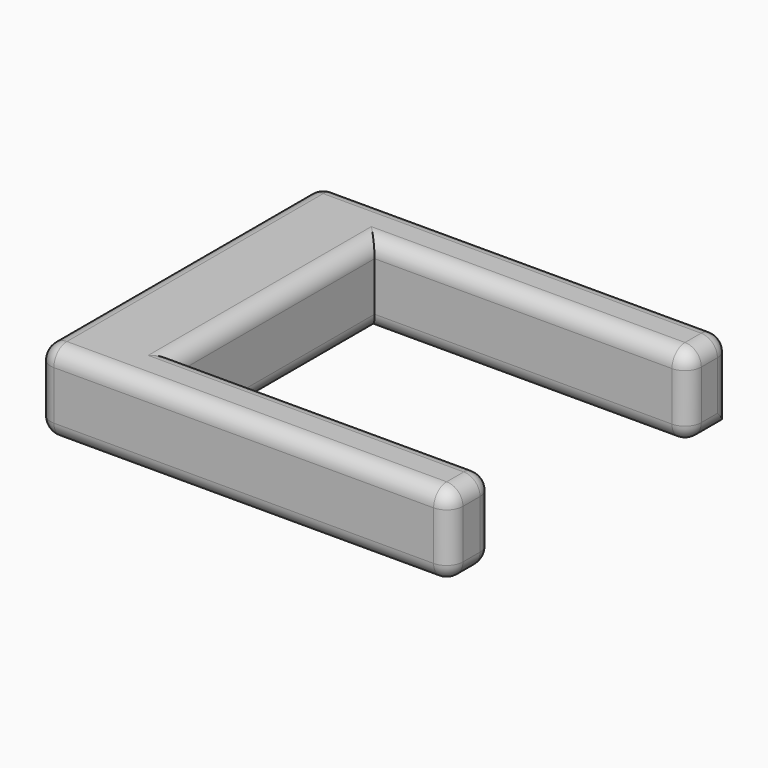
from build123d import *

# Parameters (mm, degrees)
F0_W     = 30.1708392799
F0_H     = 76.7637714744
F1_DEPTH = 25.4
F2_R     = 5.08


with BuildPart() as f1:
    # F0 (on Top) → F1 (new body)
    with BuildSketch(Plane.XY):
        with Locations((-48.0250958353, -0.8592940867)):
            Rectangle(F0_W, F0_H)
        Polygon((-32.9396761954, -39.2411798239), (-63.1105154753, -39.2411798239), (-63.1105154753, -56.0451894999), (65.4019713402, -56.0451894999), (65.4019713402, -39.2411798239), align=None)
        Polygon((64.8291036487, 53.9446882904), (-63.1105154753, 53.9446882904), (-63.1105154753, 37.5225916505), (-32.9396761954, 37.5225916505), (64.8291036487, 37.5225916505), align=None)
    extrude(amount=F1_DEPTH)

    # F2
    f2_edges = [f1.edges().sort_by_distance(p)[0] for p in [
        (15.944714, 37.522592, 25.4),
        (-32.939676, -0.859294, 25.4),
        (16.231148, -39.24118, 25.4),
        (65.401971, -47.643185, 25.4),
        (64.829104, 45.73364, 25.4),
        (1.145728, -56.045189, 25.4),
        (65.401971, -56.045189, 12.7),
        (65.401971, -39.24118, 12.7),
        (-63.110515, -56.045189, 12.7),
        (-63.110515, -1.050251, 25.4),
        (0.859294, 53.944688, 25.4),
        (64.829104, 37.522592, 12.7),
        (64.829104, 53.944688, 12.7),
        (-63.110515, 53.944688, 12.7),
        (-63.110515, -1.050251, 0),
        (1.145728, -56.045189, 0),
        (15.944714, 37.522592, 0),
        (-32.939676, -0.859294, 0),
        (16.231148, -39.24118, 0),
        (65.401971, -47.643185, 0),
        (64.829104, 45.73364, 0),
    ]]
    fillet(f2_edges, radius=F2_R)


solid = f1.part
